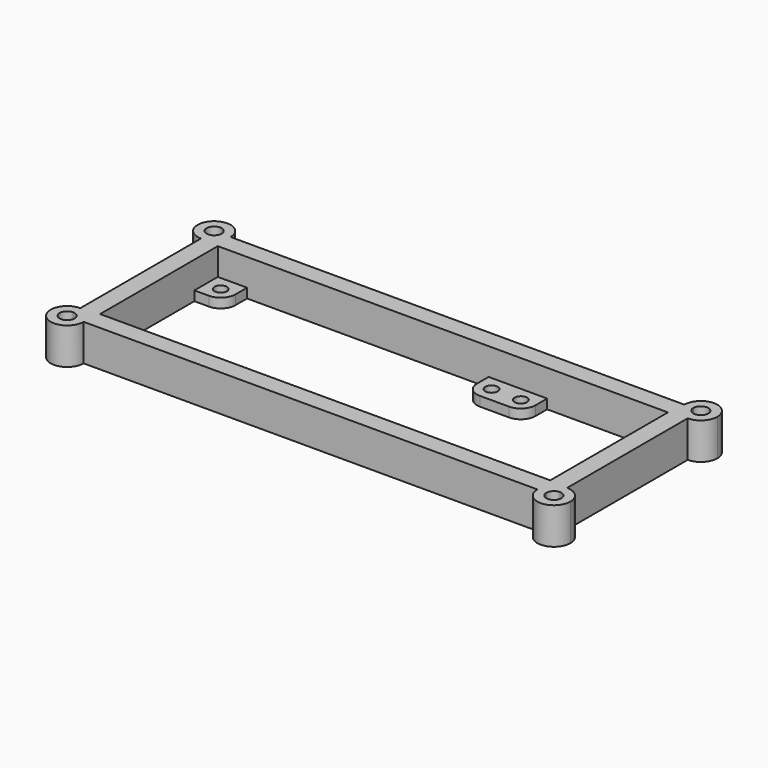
from build123d import *

# Parameters (mm, degrees)
F1_DEPTH = 10
F0_R     = 1.7
F2_DEPTH = 2.6


with BuildPart() as f1:
    # F0 (on Top) → F1 (new body)
    with BuildSketch(Plane.XY):
        with BuildLine():
            Line((75.1944829105, 36.3174733537), (-48.8055170895, 36.3174733537))
            ThreePointArc((-48.8055170895, 36.3174733537), (-50.1235365742, 33.1354928384), (-53.3055170895, 31.8174733537))
            Line((-53.3055170895, 31.8174733537), (-53.3055170895, -9.3825266463))
            ThreePointArc((-53.3055170895, -9.3825266463), (-50.1235365742, -10.7005461309), (-48.8055170895, -13.8825266463))
            Line((-48.8055170895, -13.8825266463), (75.1944829105, -13.8825266463))
            ThreePointArc((75.1944829105, -13.8825266463), (76.5125023952, -10.7005461309), (79.6944829105, -9.3825266463))
            Line((79.6944829105, -9.3825266463), (79.6944829105, 31.8174733537))
            ThreePointArc((79.6944829105, 31.8174733537), (76.5125023952, 33.1354928384), (75.1944829105, 36.3174733537))
        make_face()
        Polygon((-44.3055170895, 31.3174733537), (-40.3055170895, 31.3174733537), (25.6944829105, 31.3174733537), (29.6944829105, 31.3174733537), (37.6944829105, 31.3174733537), (41.6944829105, 31.3174733537), (74.6944829105, 31.3174733537), (74.6944829105, -0.8825266463), (74.6944829105, -4.8825266463), (74.6944829105, -8.8825266463), (70.6944829105, -8.8825266463), (66.6944829105, -8.8825266463), (0, -8.8825266463), (-3.3055170895, -8.8825266463), (-11.3055170999, -8.8825266463), (-15.3055170895, -8.8825266463), (-48.3055170895, -8.8825266463), (-48.3055170895, 23.3174733537), (-48.3055170895, 27.3174733537), (-48.3055170895, 31.3174733537), align=None, mode=Mode.SUBTRACT)
        with BuildLine():
            ThreePointArc((-53.3055170895, 34.2674733537), (-54.7550859909, 37.7670422552), (-51.2555170895, 36.3174733537))
            Line((-51.2555170895, 36.3174733537), (-48.8055170895, 36.3174733537))
            ThreePointArc((-48.8055170895, 36.3174733537), (-56.4874976048, 39.4994538691), (-53.3055170895, 31.8174733537))
            Line((-53.3055170895, 31.8174733537), (-53.3055170895, 34.2674733537))
        make_face()
        with BuildLine():
            Line((-48.8055170895, 36.3174733537), (-51.2555170895, 36.3174733537))
            ThreePointArc((-51.2555170895, 36.3174733537), (-51.8559481881, 34.8679044523), (-53.3055170895, 34.2674733537))
            Line((-53.3055170895, 34.2674733537), (-53.3055170895, 31.8174733537))
            ThreePointArc((-53.3055170895, 31.8174733537), (-50.1235365742, 33.1354928384), (-48.8055170895, 36.3174733537))
        make_face()
        with BuildLine():
            Line((-53.3055170895, -11.8325266463), (-53.3055170895, -9.3825266463))
            ThreePointArc((-53.3055170895, -9.3825266463), (-56.4874976048, -17.0645071616), (-48.8055170895, -13.8825266463))
            Line((-48.8055170895, -13.8825266463), (-51.2555170895, -13.8825266463))
            ThreePointArc((-51.2555170895, -13.8825266463), (-54.7550859909, -15.3320955477), (-53.3055170895, -11.8325266463))
        make_face()
        with BuildLine():
            ThreePointArc((-48.8055170895, -13.8825266463), (-50.1235365742, -10.7005461309), (-53.3055170895, -9.3825266463))
            Line((-53.3055170895, -9.3825266463), (-53.3055170895, -11.8325266463))
            ThreePointArc((-53.3055170895, -11.8325266463), (-51.8559481881, -12.4329577448), (-51.2555170895, -13.8825266463))
            Line((-51.2555170895, -13.8825266463), (-48.8055170895, -13.8825266463))
        make_face()
        with BuildLine():
            ThreePointArc((84.1944829105, -13.8825266463), (82.8764634258, -10.7005461309), (79.6944829105, -9.3825266463))
            Line((79.6944829105, -9.3825266463), (79.6944829105, -11.8325266463))
            ThreePointArc((79.6944829105, -11.8325266463), (81.1440518119, -12.4329577448), (81.7444829105, -13.8825266463))
            ThreePointArc((81.7444829105, -13.8825266463), (79.6944829105, -15.9325266463), (77.6444829105, -13.8825266463))
            Line((77.6444829105, -13.8825266463), (75.1944829105, -13.8825266463))
            ThreePointArc((75.1944829105, -13.8825266463), (79.6944829105, -18.3825266463), (84.1944829105, -13.8825266463))
        make_face()
        with BuildLine():
            Line((79.6944829105, -11.8325266463), (79.6944829105, -9.3825266463))
            ThreePointArc((79.6944829105, -9.3825266463), (76.5125023952, -10.7005461309), (75.1944829105, -13.8825266463))
            Line((75.1944829105, -13.8825266463), (77.6444829105, -13.8825266463))
            ThreePointArc((77.6444829105, -13.8825266463), (78.2449140091, -12.4329577448), (79.6944829105, -11.8325266463))
        make_face()
        with BuildLine():
            Line((77.6444829105, 36.3174733537), (75.1944829105, 36.3174733537))
            ThreePointArc((75.1944829105, 36.3174733537), (76.5125023952, 33.1354928384), (79.6944829105, 31.8174733537))
            Line((79.6944829105, 31.8174733537), (79.6944829105, 34.2674733537))
            ThreePointArc((79.6944829105, 34.2674733537), (78.2449140091, 34.8679044523), (77.6444829105, 36.3174733537))
        make_face()
        with BuildLine():
            ThreePointArc((84.1944829105, 36.3174733537), (79.6944829105, 40.8174733537), (75.1944829105, 36.3174733537))
            Line((75.1944829105, 36.3174733537), (77.6444829105, 36.3174733537))
            ThreePointArc((77.6444829105, 36.3174733537), (79.6944829105, 38.3674733537), (81.7444829105, 36.3174733537))
            ThreePointArc((81.7444829105, 36.3174733537), (81.1440518119, 34.8679044523), (79.6944829105, 34.2674733537))
            Line((79.6944829105, 34.2674733537), (79.6944829105, 31.8174733537))
            ThreePointArc((79.6944829105, 31.8174733537), (82.8764634258, 33.1354928384), (84.1944829105, 36.3174733537))
        make_face()
    extrude(amount=F1_DEPTH)

    # F0 (on Top) → F2 (join)
    with BuildSketch(Plane.XY):
        with BuildLine():
            Line((-40.3055170895, 27.3174733537), (-40.3055170895, 31.3174733537))
            Line((-40.3055170895, 31.3174733537), (-44.3055170895, 31.3174733537))
            ThreePointArc((-44.3055170895, 31.3174733537), (-41.4770899647, 30.1459004785), (-40.3055170895, 27.3174733537))
        make_face()
        with BuildLine():
            ThreePointArc((-48.3055170895, 27.3174733537), (-47.1339442142, 30.1459004785), (-44.3055170895, 31.3174733537))
            Line((-44.3055170895, 31.3174733537), (-48.3055170895, 31.3174733537))
            Line((-48.3055170895, 31.3174733537), (-48.3055170895, 27.3174733537))
        make_face()
        with BuildLine():
            ThreePointArc((-44.3055170895, 23.3174733537), (-47.1339442142, 24.489046229), (-48.3055170895, 27.3174733537))
            Line((-48.3055170895, 27.3174733537), (-48.3055170895, 23.3174733537))
            Line((-48.3055170895, 23.3174733537), (-44.3055170895, 23.3174733537))
        make_face()
        with BuildLine():
            ThreePointArc((-40.3055170895, 27.3174733537), (-41.4770899647, 30.1459004785), (-44.3055170895, 31.3174733537))
            ThreePointArc((-44.3055170895, 31.3174733537), (-47.1339442142, 30.1459004785), (-48.3055170895, 27.3174733537))
            ThreePointArc((-48.3055170895, 27.3174733537), (-47.1339442142, 24.489046229), (-44.3055170895, 23.3174733537))
            ThreePointArc((-44.3055170895, 23.3174733537), (-41.4770899647, 24.489046229), (-40.3055170895, 27.3174733537))
        make_face()
        with Locations((-44.3055170895, 27.3174733537)):
            Circle(F0_R, mode=Mode.SUBTRACT)
        with BuildLine():
            ThreePointArc((-11.3055170895, -0.8825266463), (-8.4770899647, -2.0540995215), (-7.3055170895, -4.8825266463))
            ThreePointArc((-7.3055170895, -4.8825266463), (-6.1339442142, -2.0540995215), (-3.3055170895, -0.8825266463))
            Line((-3.3055170895, -0.8825266463), (-11.3055170895, -0.8825266463))
        make_face()
        with BuildLine():
            ThreePointArc((-15.3055170895, -4.8825266463), (-14.1339442179, -7.7109537673), (-11.3055170999, -8.8825266463))
            ThreePointArc((-11.3055170999, -8.8825266463), (-8.4770899684, -7.7109537747), (-7.3055170895, -4.8825266463))
            ThreePointArc((-7.3055170895, -4.8825266463), (-8.4770899647, -2.0540995215), (-11.3055170895, -0.8825266463))
            ThreePointArc((-11.3055170895, -0.8825266463), (-14.1339442142, -2.0540995215), (-15.3055170895, -4.8825266463))
        make_face()
        with Locations((-11.3055170895, -4.8825266463)):
            Circle(F0_R, mode=Mode.SUBTRACT)
        with BuildLine():
            ThreePointArc((-7.3055170895, -4.8825266463), (-6.1339442142, -7.710953771), (-3.3055170895, -8.8825266463))
            ThreePointArc((-3.3055170895, -8.8825266463), (-1.4360014945, -8.4187550665), (0, -7.1349823664))
            ThreePointArc((0, -7.1349823664), (0.516921161, -6.0610705873), (0.6944829105, -4.8825266463))
            ThreePointArc((0.6944829105, -4.8825266463), (-0.4770899647, -2.0540995215), (-3.3055170895, -0.8825266463))
            ThreePointArc((-3.3055170895, -0.8825266463), (-6.1339442142, -2.0540995215), (-7.3055170895, -4.8825266463))
        make_face()
        with Locations((-3.3055170895, -4.8825266463)):
            Circle(F0_R, mode=Mode.SUBTRACT)
        with BuildLine():
            ThreePointArc((-7.3055170895, -4.8825266463), (-8.4770899684, -7.7109537747), (-11.3055170999, -8.8825266463))
            Line((-11.3055170999, -8.8825266463), (-3.3055170895, -8.8825266463))
            ThreePointArc((-3.3055170895, -8.8825266463), (-6.1339442142, -7.710953771), (-7.3055170895, -4.8825266463))
        make_face()
        with BuildLine():
            ThreePointArc((0, -7.1349823664), (-1.4360014945, -8.4187550665), (-3.3055170895, -8.8825266463))
            Line((-3.3055170895, -8.8825266463), (0, -8.8825266463))
            Line((0, -8.8825266463), (0, -7.1349823664))
        make_face()
        with BuildLine():
            Line((-15.3055170895, -4.8825266463), (-15.3055170895, -8.8825266463))
            Line((-15.3055170895, -8.8825266463), (-11.3055170999, -8.8825266463))
            ThreePointArc((-11.3055170999, -8.8825266463), (-14.1339442179, -7.7109537673), (-15.3055170895, -4.8825266463))
        make_face()
        with BuildLine():
            ThreePointArc((-7.3055170895, -4.8825266463), (-6.1339442142, -7.710953771), (-3.3055170895, -8.8825266463))
            ThreePointArc((-3.3055170895, -8.8825266463), (-1.4360014945, -8.4187550665), (0, -7.1349823664))
            ThreePointArc((0, -7.1349823664), (0.516921161, -6.0610705873), (0.6944829105, -4.8825266463))
            ThreePointArc((0.6944829105, -4.8825266463), (-0.4770899647, -2.0540995215), (-3.3055170895, -0.8825266463))
            ThreePointArc((-3.3055170895, -0.8825266463), (-6.1339442142, -2.0540995215), (-7.3055170895, -4.8825266463))
        make_face()
        with Locations((-3.3055170895, -4.8825266463)):
            Circle(F0_R, mode=Mode.SUBTRACT)
        with BuildLine():
            ThreePointArc((41.6944829105, 27.3174733537), (40.5229100353, 30.1459004785), (37.6944829105, 31.3174733537))
            ThreePointArc((37.6944829105, 31.3174733537), (34.8660557858, 30.1459004785), (33.6944829105, 27.3174733537))
            ThreePointArc((33.6944829105, 27.3174733537), (34.8660557858, 24.489046229), (37.6944829105, 23.3174733537))
            ThreePointArc((37.6944829105, 23.3174733537), (40.5229100353, 24.489046229), (41.6944829105, 27.3174733537))
        make_face()
        with Locations((37.6944829105, 27.3174733537)):
            Circle(F0_R, mode=Mode.SUBTRACT)
        with BuildLine():
            Line((29.6944829105, 31.3174733537), (25.6944829105, 31.3174733537))
            Line((25.6944829105, 31.3174733537), (25.6944829105, 27.3174733537))
            ThreePointArc((25.6944829105, 27.3174733537), (26.8660557858, 30.1459004785), (29.6944829105, 31.3174733537))
        make_face()
        with BuildLine():
            ThreePointArc((37.6944829105, 23.3174733537), (34.8660557858, 24.489046229), (33.6944829105, 27.3174733537))
            ThreePointArc((33.6944829105, 27.3174733537), (32.5229100353, 24.489046229), (29.6944829105, 23.3174733537))
            Line((29.6944829105, 23.3174733537), (37.6944829105, 23.3174733537))
        make_face()
        with BuildLine():
            Line((41.6944829105, 31.3174733537), (37.6944829105, 31.3174733537))
            ThreePointArc((37.6944829105, 31.3174733537), (40.5229100353, 30.1459004785), (41.6944829105, 27.3174733537))
            Line((41.6944829105, 27.3174733537), (41.6944829105, 31.3174733537))
        make_face()
        with BuildLine():
            Line((37.6944829105, 31.3174733537), (29.6944829105, 31.3174733537))
            ThreePointArc((29.6944829105, 31.3174733537), (32.5229100353, 30.1459004785), (33.6944829105, 27.3174733537))
            ThreePointArc((33.6944829105, 27.3174733537), (34.8660557858, 30.1459004785), (37.6944829105, 31.3174733537))
        make_face()
        with BuildLine():
            ThreePointArc((33.6944829105, 27.3174733537), (32.5229100353, 30.1459004785), (29.6944829105, 31.3174733537))
            ThreePointArc((29.6944829105, 31.3174733537), (26.8660557858, 30.1459004785), (25.6944829105, 27.3174733537))
            ThreePointArc((25.6944829105, 27.3174733537), (26.8660557858, 24.489046229), (29.6944829105, 23.3174733537))
            ThreePointArc((29.6944829105, 23.3174733537), (32.5229100353, 24.489046229), (33.6944829105, 27.3174733537))
        make_face()
        with Locations((29.6944829105, 27.3174733537)):
            Circle(F0_R, mode=Mode.SUBTRACT)
        with BuildLine():
            ThreePointArc((33.6944829105, 27.3174733537), (32.5229100353, 30.1459004785), (29.6944829105, 31.3174733537))
            ThreePointArc((29.6944829105, 31.3174733537), (26.8660557858, 30.1459004785), (25.6944829105, 27.3174733537))
            ThreePointArc((25.6944829105, 27.3174733537), (26.8660557858, 24.489046229), (29.6944829105, 23.3174733537))
            ThreePointArc((29.6944829105, 23.3174733537), (32.5229100353, 24.489046229), (33.6944829105, 27.3174733537))
        make_face()
        with Locations((29.6944829105, 27.3174733537)):
            Circle(F0_R, mode=Mode.SUBTRACT)
        with BuildLine():
            ThreePointArc((70.6944829105, -8.8825266463), (73.5229100353, -7.710953771), (74.6944829105, -4.8825266463))
            ThreePointArc((74.6944829105, -4.8825266463), (73.5229100353, -2.0540995215), (70.6944829105, -0.8825266463))
            ThreePointArc((70.6944829105, -0.8825266463), (67.8660557858, -2.0540995215), (66.6944829105, -4.8825266463))
            ThreePointArc((66.6944829105, -4.8825266463), (67.8660557858, -7.710953771), (70.6944829105, -8.8825266463))
        make_face()
        with Locations((70.6944829105, -4.8825266463)):
            Circle(F0_R, mode=Mode.SUBTRACT)
        with BuildLine():
            Line((66.6944829105, -8.8825266463), (70.6944829105, -8.8825266463))
            ThreePointArc((70.6944829105, -8.8825266463), (67.8660557858, -7.710953771), (66.6944829105, -4.8825266463))
            Line((66.6944829105, -4.8825266463), (66.6944829105, -8.8825266463))
        make_face()
        with BuildLine():
            Line((74.6944829105, -4.8825266463), (74.6944829105, -0.8825266463))
            Line((74.6944829105, -0.8825266463), (70.6944829105, -0.8825266463))
            ThreePointArc((70.6944829105, -0.8825266463), (73.5229100353, -2.0540995215), (74.6944829105, -4.8825266463))
        make_face()
        with BuildLine():
            Line((74.6944829105, -8.8825266463), (74.6944829105, -4.8825266463))
            ThreePointArc((74.6944829105, -4.8825266463), (73.5229100353, -7.710953771), (70.6944829105, -8.8825266463))
            Line((70.6944829105, -8.8825266463), (74.6944829105, -8.8825266463))
        make_face()
    extrude(amount=F2_DEPTH)


solid = f1.part
